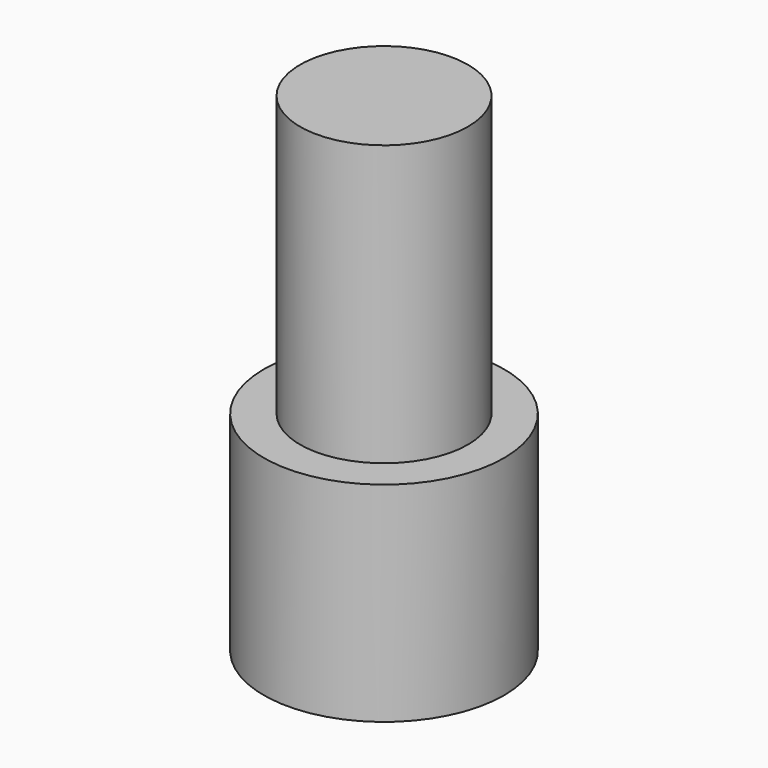
from build123d import *

# Parameters (mm, degrees)
F0_R     = 30.486064
F1_DEPTH = 53
F2_R     = 21.299592
F3_DEPTH = 71


with BuildPart() as f1:
    # F0 (on Top) → F1 (new body)
    with BuildSketch(Plane.XY):
        Circle(F0_R)
    extrude(amount=-F1_DEPTH)


with BuildPart() as f3:
    # F2 (on face) → F3 (new body)
    with BuildSketch(Plane.XY):
        Circle(F2_R)
    extrude(amount=F3_DEPTH)


solid = Compound([f1.part, f3.part])
